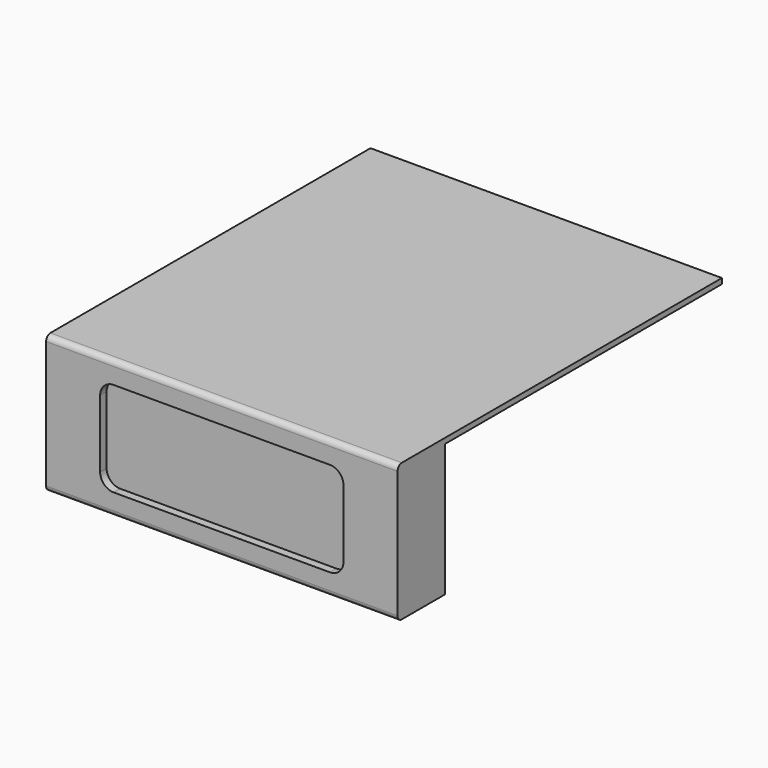
from build123d import *

# Parameters (mm, degrees)
F0_W      = 130
F0_H      = 150
F1_DEPTH  = 51
F2_W      = 128
F2_H      = 49
F3_DEPTH  = 130.001
F4_W      = 90
F4_H      = 35
F5_DEPTH  = 3
F6_R      = 5
F7_R      = 5
F8_R      = 2
F9_R      = 2
F11_DEPTH = 1
F12_W     = 40
F12_H     = 25
F13_DEPTH = 1
F15_DEPTH = 2
F16_SIZE  = 1
F18_DEPTH = 2


with BuildPart() as f1:
    # F0 (on Top) → F1 (new body)
    with BuildSketch(Plane.XY):
        Rectangle(F0_W, F0_H)
    extrude(amount=F1_DEPTH)

    # F2 (on face) → F3 (cut, through all)
    with BuildSketch(Plane.YZ.offset(65)):
        with Locations((11, 24.5)):
            Rectangle(F2_W, F2_H)
    extrude(amount=-F3_DEPTH, mode=Mode.SUBTRACT)

    # F4 (on face) → F5 (cut)
    with BuildSketch(Plane.XZ.offset(75)):
        with Locations((0, 25.5)):
            Rectangle(F4_W, F4_H)
    extrude(amount=-F5_DEPTH, mode=Mode.SUBTRACT)

    # F6
    f6_edges = [f1.edges().sort_by_distance(p)[0] for p in [
        (-45, -73.5, 43),
    ]]
    fillet(f6_edges, radius=F6_R)

    # F7
    f7_edges = [f1.edges().sort_by_distance(p)[0] for p in [
        (45, -73.5, 43),
        (45, -73.5, 8),
        (-45, -73.5, 8),
    ]]
    fillet(f7_edges, radius=F7_R)

    # F8
    f8_edges = [f1.edges().sort_by_distance(p)[0] for p in [
        (0, -75, 0),
    ]]
    fillet(f8_edges, radius=F8_R)

    # F9
    f9_edges = [f1.edges().sort_by_distance(p)[0] for p in [
        (0, -75, 51),
    ]]
    fillet(f9_edges, radius=F9_R)

    # F10 (on face) → F11 (join)
    with BuildSketch(Plane(origin=(0, -53, 0), x_dir=(-1, 0, 0), z_dir=(0, 1, 0))):
        with BuildLine():
            Line((-57, 39.1), (-57, 17.1))
            ThreePointArc((-57, 17.1), (-56.5606601718, 16.0393398282), (-55.5, 15.6))
            ThreePointArc((-55.5, 15.6), (-54.4393398282, 16.0393398282), (-54, 17.1))
            Line((-54, 17.1), (-54, 39.1))
            ThreePointArc((-54, 39.1), (-54.4393398282, 40.1606601718), (-55.5, 40.6))
            ThreePointArc((-55.5, 40.6), (-56.5606601718, 40.1606601718), (-57, 39.1))
        make_face()
    extrude(amount=F11_DEPTH)

    # F12 (on face) → F13 (cut)
    with BuildSketch(Plane(origin=(0, -53, 0), x_dir=(-1, 0, 0), z_dir=(0, 1, 0))):
        with Locations((-11, 35.5)):
            Rectangle(F12_W, F12_H)
    extrude(amount=-F13_DEPTH, mode=Mode.SUBTRACT)

    # F14 (on face) → F15 (cut)
    with BuildSketch(Plane(origin=(0, -53, 0), x_dir=(-1, 0, 0), z_dir=(0, 1, 0))):
        with BuildLine():
            Line((-24, 16), (-24, 6))
            Line((-24, 6), (-5, 6))
            ThreePointArc((-5, 6), (-1.4644660941, 7.4644660941), (0, 11))
            ThreePointArc((0, 11), (-1.4644660941, 14.5355339059), (-5, 16))
            Line((-5, 16), (-24, 16))
        make_face()
        with BuildLine():
            ThreePointArc((-24, 16), (-27.5355339059, 14.5355339059), (-29, 11))
            ThreePointArc((-29, 11), (-27.5355339059, 7.4644660941), (-24, 6))
            Line((-24, 6), (-24, 16))
        make_face()
    extrude(amount=-F15_DEPTH, mode=Mode.SUBTRACT)

    # F16
    f16_edges = [f1.edges().sort_by_distance(p)[0] for p in [
        (29, -55, 11),
        (14.5, -55, 16),
        (0, -55, 11),
        (14.5, -55, 6),
    ]]
    chamfer(f16_edges, length=F16_SIZE)

    # F17 (on face) → F18 (join)
    with BuildSketch(Plane(origin=(0, -55, 0), x_dir=(-1, 0, 0), z_dir=(0, 1, 0))):
        with BuildLine():
            Line((-27, 11), (-24, 11))
            Line((-24, 11), (-17, 11))
            ThreePointArc((-17, 11), (-17.4393398282, 12.0606601718), (-18.5, 12.5))
            Line((-18.5, 12.5), (-25.5, 12.5))
            ThreePointArc((-25.5, 12.5), (-26.5606601718, 12.0606601718), (-27, 11))
        make_face()
        with BuildLine():
            Line((-17, 11), (-24, 11))
            Line((-24, 11), (-27, 11))
            ThreePointArc((-27, 11), (-26.5606601718, 9.9393398282), (-25.5, 9.5))
            Line((-25.5, 9.5), (-18.5, 9.5))
            ThreePointArc((-18.5, 9.5), (-17.4393398282, 9.9393398282), (-17, 11))
        make_face()
        with BuildLine():
            ThreePointArc((-10.5000000544, 12.4815619213), (-11.5606602262, 12.042222093), (-12.0000000544, 10.9815619213))
            ThreePointArc((-12.0000000544, 10.9815619213), (-11.5606602262, 9.9209017495), (-10.5000000544, 9.4815619213))
            Line((-10.5000000544, 9.4815619213), (-3.5000000544, 9.4815619213))
            ThreePointArc((-3.5000000544, 9.4815619213), (-2.4393398827, 9.9209017495), (-2.0000000544, 10.9815619213))
            ThreePointArc((-2.0000000544, 10.9815619213), (-2.4393398827, 12.042222093), (-3.5000000544, 12.4815619213))
            Line((-3.5000000544, 12.4815619213), (-10.5000000544, 12.4815619213))
        make_face()
    extrude(amount=F18_DEPTH)


solid = f1.part
